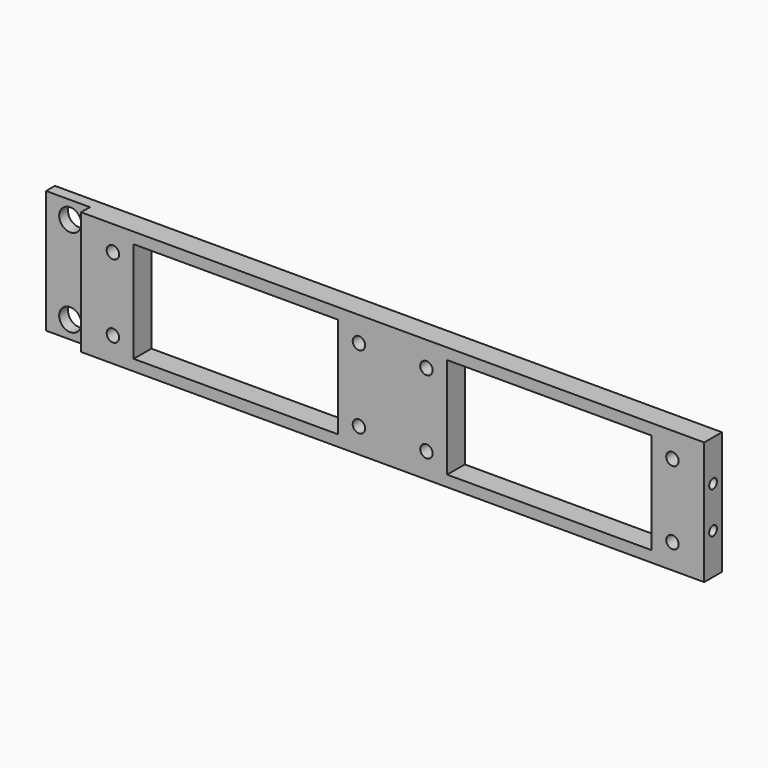
from build123d import *

# Parameters (mm, degrees)
SKETCH004_W     = 241.3
SKETCH004_H     = 44.5
SKETCH004_R     = 4
SKETCH004_R_2   = 2.25
SKETCH004_W_2   = 74
SKETCH004_H_2   = 36.5
PAD003_DEPTH    = 8
SKETCH_W        = 15.875
SKETCH_H        = 44.5
POCKET_DEPTH    = 4
SKETCH005_R     = 1.75
POCKET001_DEPTH = 10
SKETCH006_R     = 3.5
POCKET002_DEPTH = 15


with BuildPart() as part:
    # Sketch004 → Pad003 (new body)
    with BuildSketch(Plane.XZ):
        with Locations((-7.94, 0)):
            Rectangle(SKETCH004_W, SKETCH004_H)
        with Locations((-119.85, 15.9)):
            Circle(SKETCH004_R, mode=Mode.SUBTRACT)
        with Locations((-119.85, -15.9)):
            Circle(SKETCH004_R, mode=Mode.SUBTRACT)
        with Locations((-101.2125, 13.25)):
            Circle(SKETCH004_R_2, mode=Mode.SUBTRACT)
        with Locations((-101.2125, -13.25)):
            Circle(SKETCH004_R_2, mode=Mode.SUBTRACT)
        with Locations((-12.2125, -13.25)):
            Circle(SKETCH004_R_2, mode=Mode.SUBTRACT)
        with Locations((-12.2125, 13.25)):
            Circle(SKETCH004_R_2, mode=Mode.SUBTRACT)
        with Locations((12.2125, 13.25)):
            Circle(SKETCH004_R_2, mode=Mode.SUBTRACT)
        with Locations((12.2125, -13.25)):
            Circle(SKETCH004_R_2, mode=Mode.SUBTRACT)
        with Locations((101.2125, -13.25)):
            Circle(SKETCH004_R_2, mode=Mode.SUBTRACT)
        with Locations((101.2125, 13.25)):
            Circle(SKETCH004_R_2, mode=Mode.SUBTRACT)
        with Locations((-56.7125, 0)):
            Rectangle(SKETCH004_W_2, SKETCH004_H_2, mode=Mode.SUBTRACT)
        with Locations((56.7125, 0)):
            Rectangle(SKETCH004_W_2, SKETCH004_H_2, mode=Mode.SUBTRACT)
    extrude(amount=PAD003_DEPTH)

    # Sketch → Pocket (cut)
    with BuildSketch(Plane.XZ.offset(8)):
        with Locations((-120.6525, 0)):
            Rectangle(SKETCH_W, SKETCH_H)
    extrude(amount=-POCKET_DEPTH, mode=Mode.SUBTRACT)

    # Sketch005 (on Face3 of Pocket) → Pocket001 (cut)
    with BuildSketch(Plane(origin=(112.71, 0, 0), x_dir=(0, 0, 1), z_dir=(1, 0, 0))):
        with Locations((-7.5, 4)):
            Circle(SKETCH005_R)
        with Locations((7.5, 4)):
            Circle(SKETCH005_R)
    extrude(amount=-POCKET001_DEPTH, mode=Mode.SUBTRACT)

    # Sketch006 (on Face3 of Pocket001) → Pocket002 (cut)
    with BuildSketch(Plane(origin=(92.71, 0, 0), x_dir=(0, 0, 1), z_dir=(1, 0, 0))):
        with Locations((-7.5, 4)):
            Circle(SKETCH006_R)
        Polygon((11, 4), (9.25, 7.031089), (5.75, 7.031089), (4, 4), (5.75, 0.968911), (9.25, 0.968911), align=None)
    extrude(amount=POCKET002_DEPTH, mode=Mode.SUBTRACT)


solid = part.part
